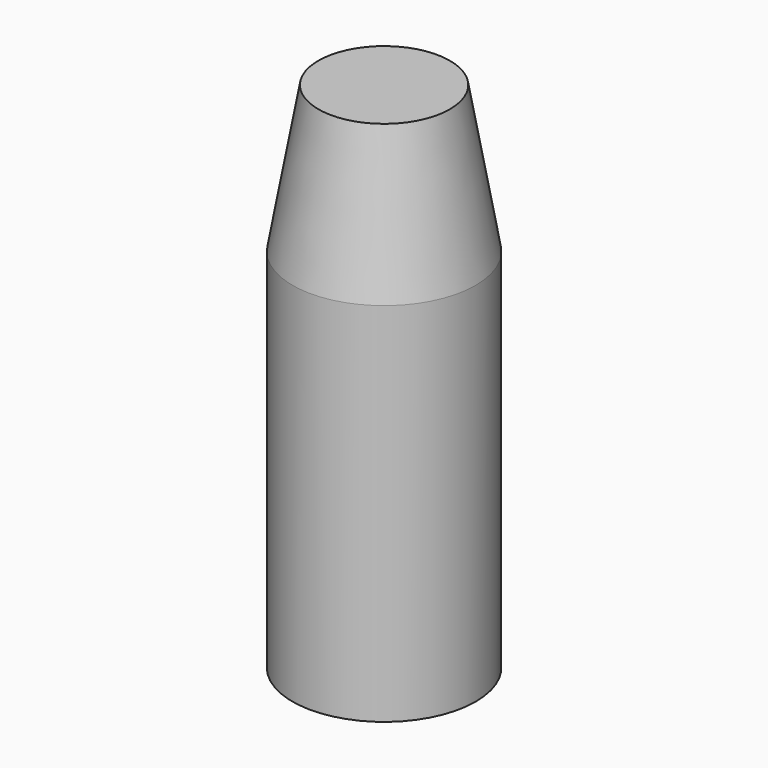
from build123d import *

# Parameters (mm, degrees)
F1_R      = 6.35
F0_DEPTH  = 12.7
F0_FACE_R = 6.35
F2_DEPTH  = 10.16
F2_TAPER  = 10


with BuildPart() as f0:
    # F1 (on Top) → F0 (new body, symmetric)
    with BuildSketch(Plane.XY):
        Circle(F1_R)
    extrude(amount=F0_DEPTH, both=True)

    # F0_face (on face) → F2 (join)
    with BuildSketch(Plane.XY.offset(12.7)):
        Circle(F0_FACE_R)
    extrude(amount=F2_DEPTH, taper=F2_TAPER)


solid = f0.part
